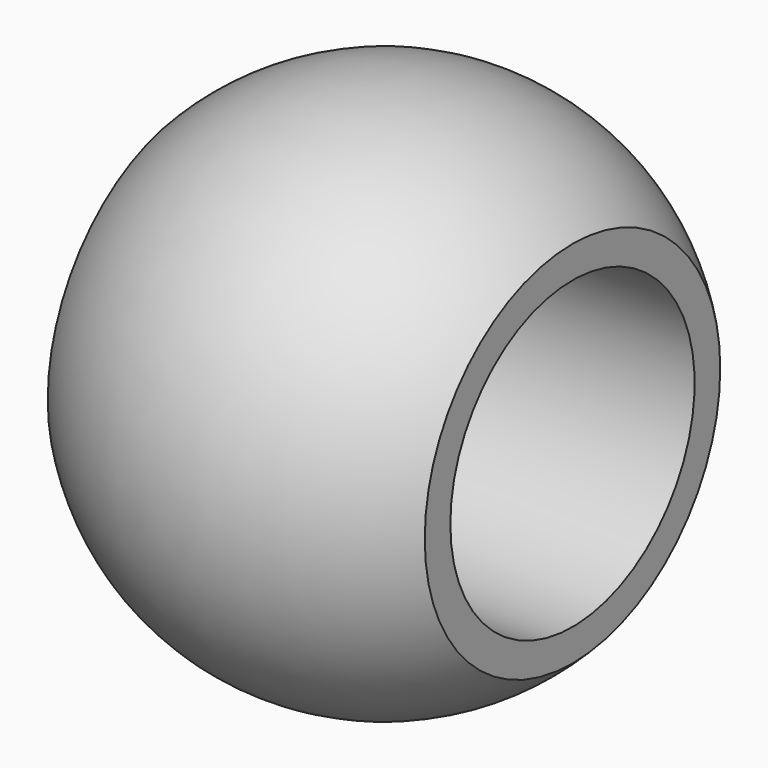
from build123d import *

# Parameters (mm, degrees)
F2_R     = 102.87
F3_DEPTH = 254.001


with BuildPart() as f1:
    # F0 (on Top) → F1 (revolve)
    with BuildSketch(Plane.XY):
        with BuildLine():
            Line((127, 0), (127, 124.434079))
            ThreePointArc((127, 124.434079), (0, 177.8), (-127, 124.434079))
            Line((-127, 124.434079), (-127, 0))
            Line((-127, 0), (127, 0))
        make_face()
    revolve(axis=Axis((0, 0, 0), (1, 0, 0)))

    # F2 (on face) → F3 (cut, through all)
    with BuildSketch(Plane(origin=(-127, 0, 0), x_dir=(0, -1, 0), z_dir=(-1, 0, 0))):
        Circle(F2_R)
    extrude(amount=-F3_DEPTH, mode=Mode.SUBTRACT)


solid = f1.part
